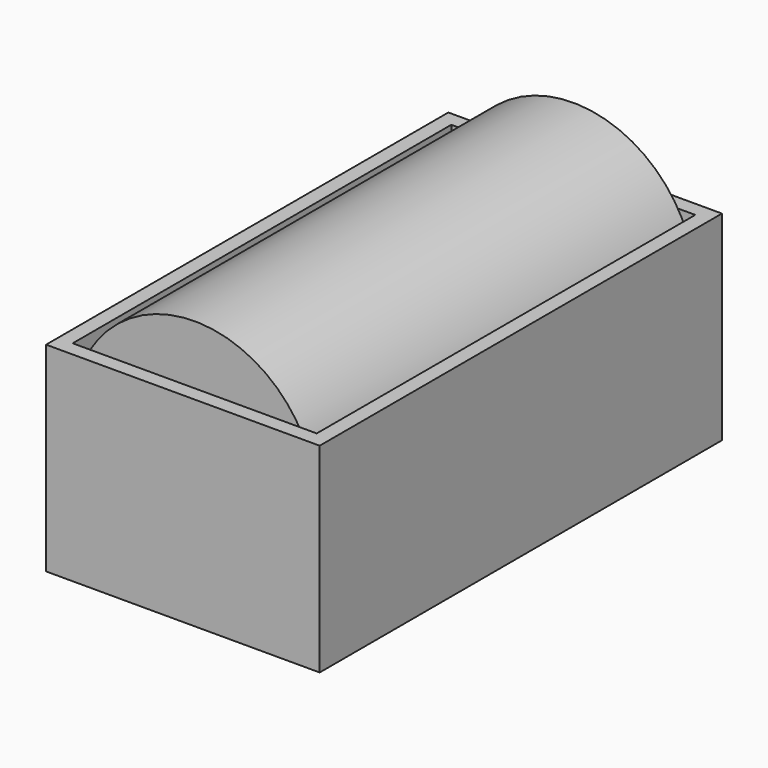
from build123d import *

# Parameters (mm, degrees)
F0_R     = 16.5
F1_DEPTH = 32
F2_W     = 37
F2_H     = 27
F3_DEPTH = 34
F4_T     = -2


with BuildPart() as f1:
    # F0 (on Front) → F1 (new body, symmetric)
    with BuildSketch(Plane.XZ):
        with Locations((0, 18.5)):
            Circle(F0_R)
    extrude(amount=F1_DEPTH, both=True)


with BuildPart() as f3:
    # F2 (on Front) → F3 (new body, symmetric)
    with BuildSketch(Plane.XZ):
        with Locations((0, 13.5)):
            Rectangle(F2_W, F2_H)
    extrude(amount=F3_DEPTH, both=True)

    # F4
    f4_openings = [f3.faces().sort_by_distance(p)[0] for p in [
        (0, 0, 27),
    ]]
    offset(amount=F4_T, openings=f4_openings)


solid = Compound([f1.part, f3.part])
